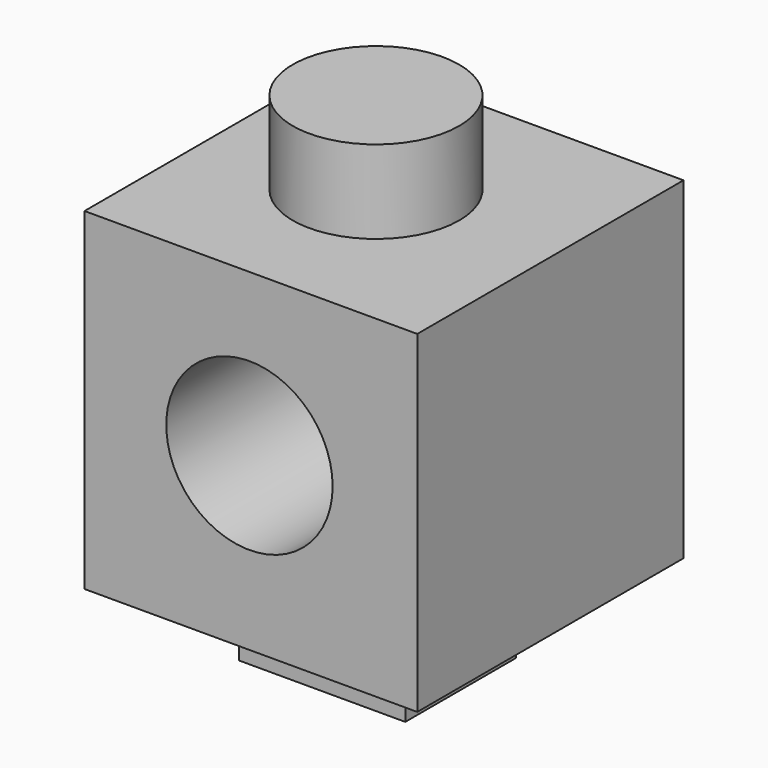
from build123d import *

# Parameters (mm, degrees)
F0_W     = 50.8
F0_H     = 50.8
F0_R     = 12.7
F1_DEPTH = 50.8
F2_R     = 12.7
F3_DEPTH = 12.7
F4_W     = 25.4
F4_H     = 21.145677
F5_DEPTH = 12.7


with BuildPart() as f1:
    # F0 (on Front) → F1 (new body)
    with BuildSketch(Plane.XZ):
        with Locations((-10.655479, 25.4)):
            Rectangle(F0_W, F0_H)
        with Locations((-10.875792, 26.120912)):
            Circle(F0_R, mode=Mode.SUBTRACT)
    extrude(amount=F1_DEPTH)

    # F2 (on face) → F3 (join)
    with BuildSketch(Plane.XY.offset(50.8)):
        with Locations((-12.352031, -24.81534)):
            Circle(F2_R)
    extrude(amount=F3_DEPTH)

    # F4 (on face) → F5 (join)
    with BuildSketch(Plane(origin=(0, 0, 0), x_dir=(1, 0, 0), z_dir=(0, 0, -1))):
        with Locations((-12.7, 24.083575)):
            Rectangle(F4_W, F4_H)
    extrude(amount=F5_DEPTH)


solid = f1.part
